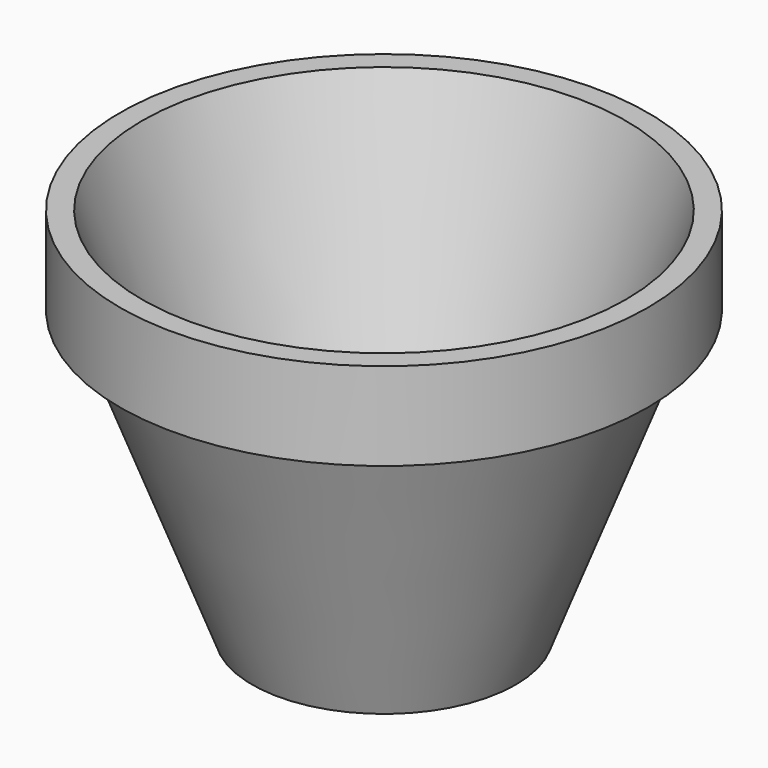
from build123d import *

# Parameters (mm, degrees)
F2_R     = 3.25
F3_DEPTH = 42.676315


with BuildPart() as f1:
    # F0 (on Front) → F1 (revolve)
    with BuildSketch(Plane.XZ):
        Polygon((0, 2.5), (0, 0), (1.629259, 0), (15, 0), (27.542878, 32.675315), (30.042878, 32.675315), (30.042878, 42.675315), (27.542878, 42.675315), (13.875246, 2.5), (1.629259, 2.5), align=None)
    revolve(axis=Axis((0, 0, 21.337657), (0, 0, 1)))

    # F2 (on Top) → F3 (cut, through all)
    with BuildSketch(Plane.XY):
        Circle(F2_R)
    extrude(amount=F3_DEPTH, mode=Mode.SUBTRACT)


solid = f1.part
